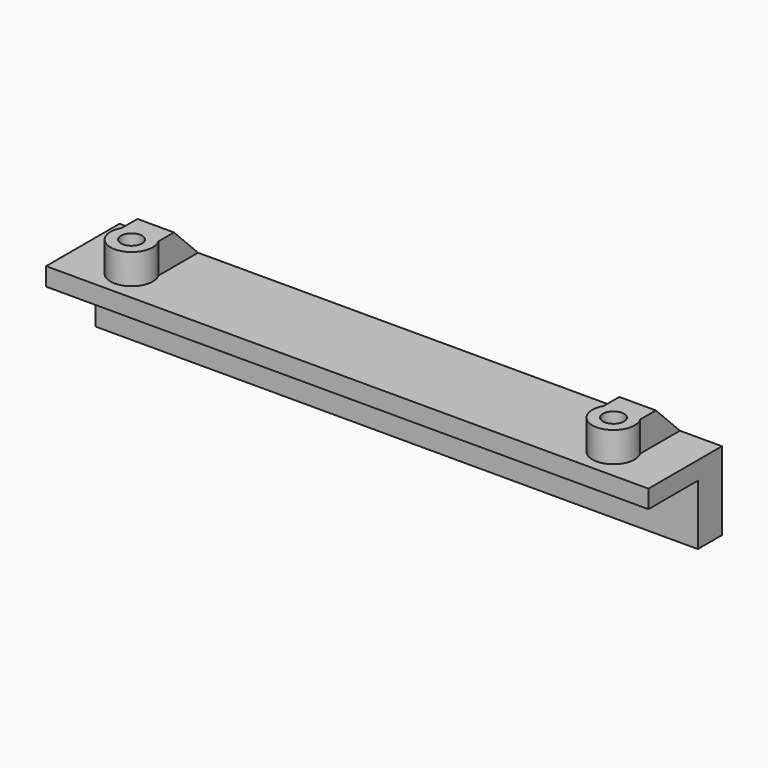
from build123d import *

# Parameters (mm, degrees)
SKETCH_W      = 100
SKETCH_H      = 15.25
SKETCH_R      = 1.75
PAD_DEPTH     = 3
SKETCH001_W   = 100
SKETCH001_H   = 5
PAD001_DEPTH  = 10
SKETCH002_R   = 3.5
SKETCH002_R_2 = 1.75
PAD002_DEPTH  = 5
SKETCH003_W   = 6.062178
SKETCH003_H   = 8.25
PAD003_DEPTH  = 5
CHAMFER_SIZE  = 5


with BuildPart() as part:
    # Sketch → Pad (new body)
    with BuildSketch(Plane.XY):
        with Locations((0, -7.625)):
            Rectangle(SKETCH_W, SKETCH_H)
        with Locations((-40, -10)):
            Circle(SKETCH_R, mode=Mode.SUBTRACT)
        with Locations((40, -10)):
            Circle(SKETCH_R, mode=Mode.SUBTRACT)
    extrude(amount=PAD_DEPTH)

    # Sketch001 (on Face7 of Pad) → Pad001 (join)
    with BuildSketch(Plane(origin=(0, 0, 0), x_dir=(1, 0, 0), z_dir=(0, 0, -1))):
        with Locations((0, 2.5)):
            Rectangle(SKETCH001_W, SKETCH001_H)
    extrude(amount=PAD001_DEPTH)

    # Sketch002 (on Face5 of Pad001) → Pad002 (join)
    with BuildSketch(Plane.XY.offset(3)):
        with Locations((-40, -10)):
            Circle(SKETCH002_R)
        with Locations((-40, -10)):
            Circle(SKETCH002_R_2, mode=Mode.SUBTRACT)
        with Locations((40, -10)):
            Circle(SKETCH002_R)
        with Locations((40, -10)):
            Circle(SKETCH002_R_2, mode=Mode.SUBTRACT)
    extrude(amount=PAD002_DEPTH)

    # Sketch003 (on Face17 of Pad002) → Pad003 (join)
    with BuildSketch(Plane.XY.offset(8)):
        with Locations((-40, -4.125)):
            Rectangle(SKETCH003_W, SKETCH003_H)
        with Locations((40, -4.125)):
            Rectangle(SKETCH003_W, SKETCH003_H)
    extrude(amount=-PAD003_DEPTH)

    # Chamfer
    chamfer_edges = [part.edges().sort_by_distance(p)[0] for p in [
        (-40, 0, 8),
        (40, 0, 8),
    ]]
    chamfer(chamfer_edges, length=CHAMFER_SIZE)


solid = part.part
